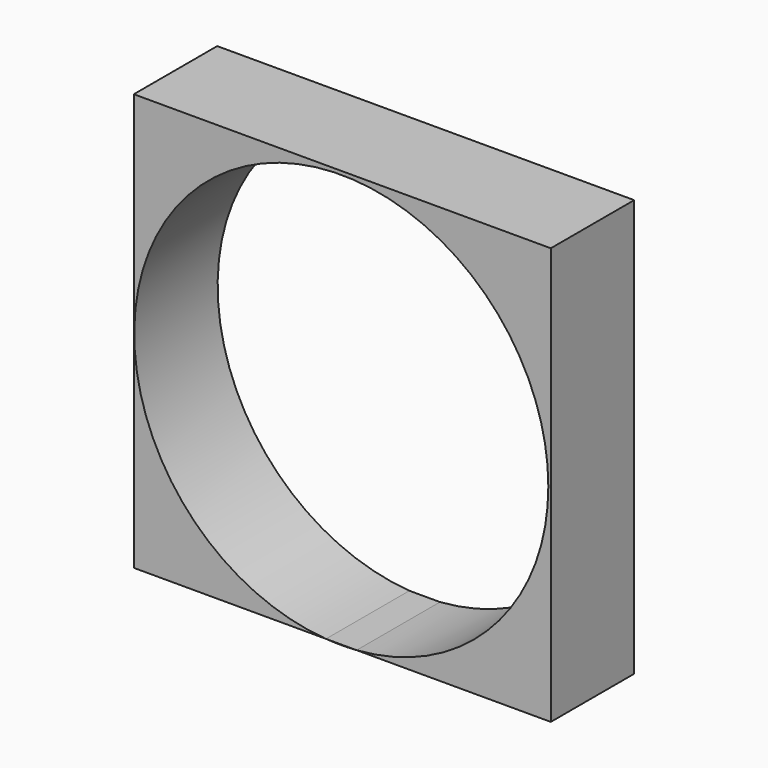
from build123d import *

# Parameters (mm, degrees)
F1_DEPTH = 10


with BuildPart() as f1:
    # F0 (on Front) → F1 (new body)
    with BuildSketch(Plane.XZ):
        with BuildLine():
            Line((2.1559845248, 26.303879898), (-37.8440154752, 26.303879898))
            Line((-37.8440154752, 26.303879898), (-37.8440154752, -13.696120102))
            Line((-37.8440154752, -13.696120102), (-19.4103831944, -13.696120102))
            ThreePointArc((-19.4103831944, -13.696120102), (-31.4560477095, 20.663300713), (1.9185947909, 6.1099138111))
            ThreePointArc((1.9185947909, 6.1099138111), (-3.3884232888, -7.4043237078), (-16.4732371869, -13.696120102))
            Line((-16.4732371869, -13.696120102), (2.1559845248, -13.696120102))
            Line((2.1559845248, -13.696120102), (2.1559845248, 26.303879898))
        make_face()
    extrude(amount=F1_DEPTH)


with BuildPart() as f1b:
    # F0 (on Front) → F1, piece 2 (new body)
    with BuildSketch(Plane.XZ):
        with BuildLine():
            Line((-16.4732371869, -13.696120102), (-19.4103831944, -13.696120102))
            ThreePointArc((-19.4103831944, -13.696120102), (-17.9418101907, -13.7504911705), (-16.4732371869, -13.696120102))
        make_face()
    extrude(amount=F1_DEPTH)


solid = Compound([f1.part, f1b.part])
